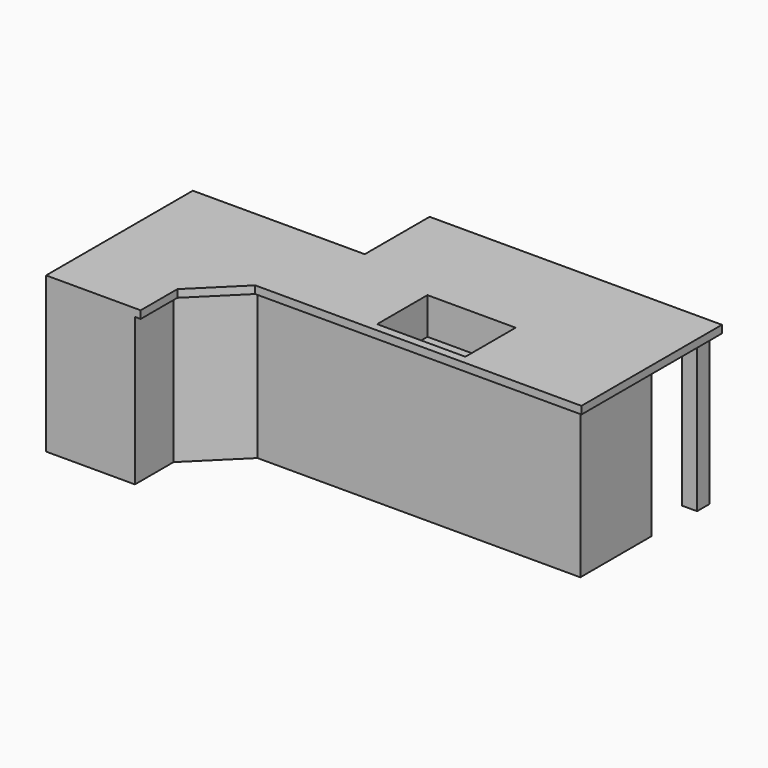
from build123d import *

# Parameters (mm, degrees)
F1_DEPTH  = 50.8
F3_DEPTH  = 980.44
F4_DEPTH  = 467.36
F5_W      = 101.6
F5_H      = 101.6
F6_DEPTH  = 988.06
F7_W      = 586.4219665527
F7_H      = 417.872607708
F8_DEPTH  = 243.84
F9_DEPTH  = 248.92
F10_DEPTH = 233.68


with BuildPart() as f1:
    # F0 (on Top) → F1 (new body)
    with BuildSketch(Plane.XY):
        Polygon((0, 1219.2), (0, 0), (628.65, 0), (628.65, 304.8), (917.6273304258, 590.55), (3086.1, 590.55), (3086.1, 1524), (1143, 1524), (1143, 1219.2), align=None)
    extrude(amount=F1_DEPTH)

    # F2 (on face) → F3 (join)
    with BuildSketch(Plane(origin=(0, 0, 0), x_dir=(1, 0, 0), z_dir=(0, 0, -1))):
        Polygon((0, -1219.2), (1143, -1219.2), (3048, -1219.2), (3048, -628.65), (901.9709744825, -628.65), (590.55, -320.7070090143), (590.55, 0), (0, 0), align=None)
    extrude(amount=F3_DEPTH)

    # F4 (add): a face of the model
    f4_faces = [f1.faces().sort_by_distance(p)[0] for p in [
        (2114.55, 1524, 25.4),
    ]]
    extrude(f4_faces, amount=F4_DEPTH)

    # F5 (on face) → F6 (join)
    with BuildSketch(Plane(origin=(0, 0, 0), x_dir=(1, 0, 0), z_dir=(0, 0, -1))):
        with Locations((2997.2, -1649.6268852234)):
            Rectangle(F5_W, F5_H)
    extrude(amount=F6_DEPTH)

    # F7 (on face) → F8 (cut)
    with BuildSketch(Plane.XY.offset(50.8)):
        with Locations((1977.4491786957, 854.2429506779)):
            Rectangle(F7_W, F7_H)
    extrude(amount=-F8_DEPTH, mode=Mode.SUBTRACT)

    # F9 (add): a face of the model
    f9_faces = [f1.faces().sort_by_distance(p)[0] for p in [
        (2114.55, 1991.36, 25.4),
    ]]
    extrude(f9_faces, amount=-F9_DEPTH)

    # F10 (cut): a face of the model
    f10_faces = [f1.faces().sort_by_distance(p)[0] for p in [
        (2114.55, 1991.36, 25.4),
    ]]
    extrude(f10_faces, amount=-F10_DEPTH, mode=Mode.SUBTRACT)


solid = f1.part
